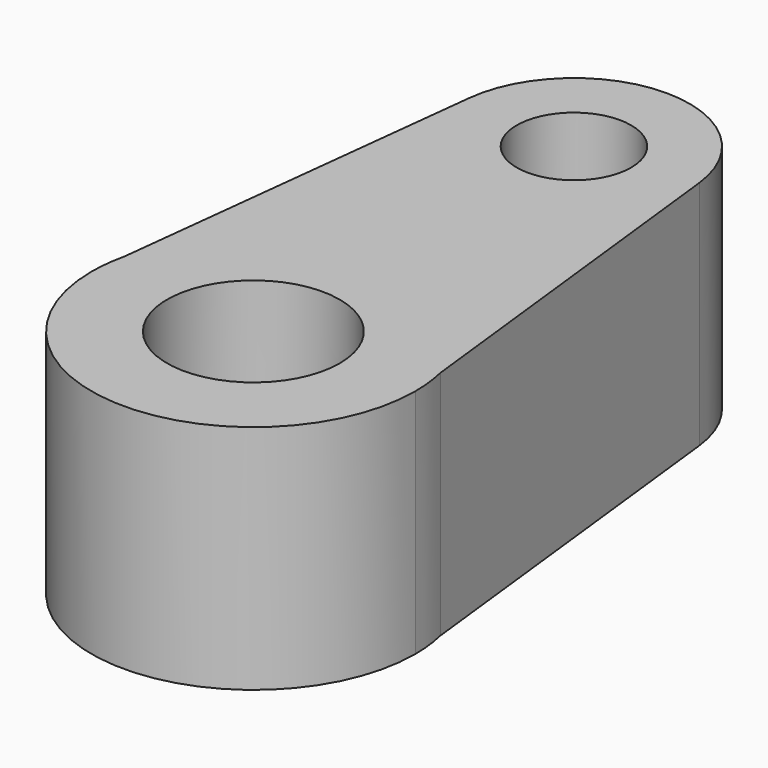
from build123d import *

# Parameters (mm, degrees)
F0_R     = 47.385597
F0_R_2   = 31.425438
F1_DEPTH = 127


with BuildPart() as f1:
    # F0 (on Top) → F1 (new body)
    with BuildSketch(Plane.XY):
        with BuildLine():
            Line((-86.634222, 19.942958), (-88.9, 0))
            ThreePointArc((-88.9, 0), (0, -88.9), (88.9, 0))
            Line((88.9, 0), (86.634222, 19.942958))
            ThreePointArc((86.634222, 19.942958), (0, 88.9), (-86.634222, 19.942958))
        make_face()
        Circle(F0_R, mode=Mode.SUBTRACT)
        with BuildLine():
            ThreePointArc((-86.634222, 19.942958), (-88.331739, 10.035628), (-88.9, 0))
            Line((-88.9, 0), (-86.634222, 19.942958))
        make_face()
        with BuildLine():
            Line((86.634222, 19.942958), (88.9, 0))
            ThreePointArc((88.9, 0), (88.331739, 10.035628), (86.634222, 19.942958))
        make_face()
        with BuildLine():
            Line((-63.0941, 227.138758), (-86.634222, 19.942958))
            ThreePointArc((-86.634222, 19.942958), (0, 88.9), (86.634222, 19.942958))
            Line((86.634222, 19.942958), (63.0941, 227.138758))
            ThreePointArc((63.0941, 227.138758), (63.398444, 223.560347), (63.5, 219.970453))
            ThreePointArc((63.5, 219.970453), (-3.589894, 156.572009), (-63.0941, 227.138758))
        make_face()
        with BuildLine():
            ThreePointArc((63.0941, 227.138758), (0, 283.470453), (-63.0941, 227.138758))
            ThreePointArc((-63.0941, 227.138758), (-3.589894, 156.572009), (63.5, 219.970453))
            ThreePointArc((63.5, 219.970453), (63.398444, 223.560347), (63.0941, 227.138758))
        make_face()
        with Locations((0, 219.970453)):
            Circle(F0_R_2, mode=Mode.SUBTRACT)
        with BuildLine():
            Line((-86.634222, 19.942958), (-88.9, 0))
            ThreePointArc((-88.9, 0), (0, -88.9), (88.9, 0))
            Line((88.9, 0), (86.634222, 19.942958))
            ThreePointArc((86.634222, 19.942958), (0, 88.9), (-86.634222, 19.942958))
        make_face()
        Circle(F0_R, mode=Mode.SUBTRACT)
    extrude(amount=F1_DEPTH)


solid = f1.part
